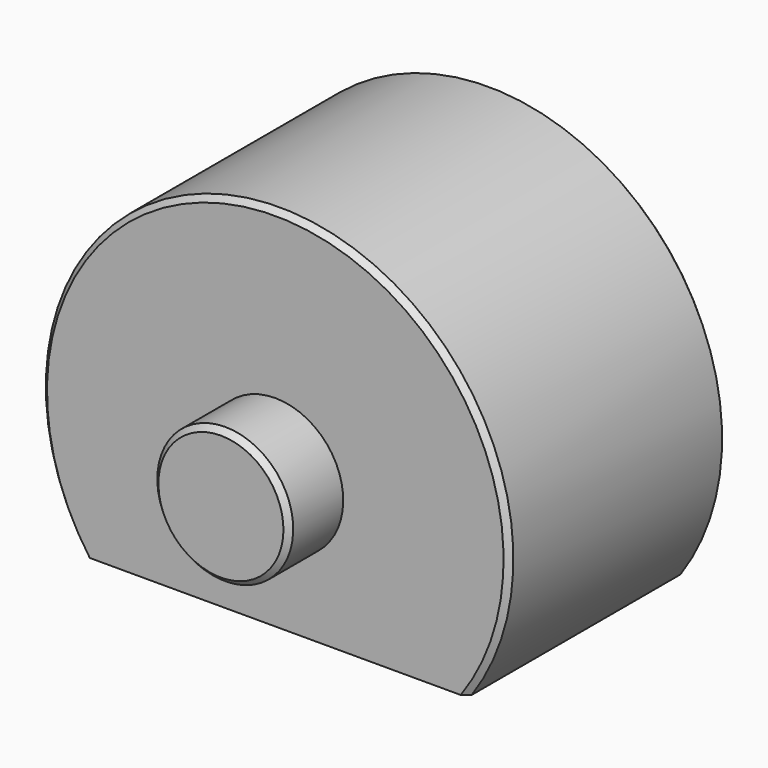
from build123d import *

# Parameters (mm, degrees)
F0_W     = 12.7
F0_H     = 7.747
F0_H_2   = 3.175
F0_W_2   = 3.175
F3_DEPTH = 15.876
F4_SIZE  = 0.254
F5_R     = 3.175
F6_DEPTH = 12.7


with BuildPart() as f1:
    # F0 (on Right) → F1 (revolve)
    with BuildSketch(Plane.YZ):
        with Locations((0, 7.0485)):
            Rectangle(F0_W, F0_H)
        with Locations((0, 1.5875)):
            Rectangle(F0_W, F0_H_2)
        with Locations((-7.9375, 1.5875)):
            Rectangle(F0_W_2, F0_H_2)
        with Locations((7.9375, 1.5875)):
            Rectangle(F0_W_2, F0_H_2)
    revolve(axis=Axis((0, 0, 0), (0, 1, 0)))

    # F2 (on face) → F3 (cut, through all)
    with BuildSketch(Plane.XZ.offset(6.35)):
        with BuildLine():
            Line((-8.9757648699, -6.223), (-10.8736076074, -6.223))
            Line((-10.8736076074, -6.223), (-10.8736076074, -16.0401048288))
            Line((-10.8736076074, -16.0401048288), (15.6559471654, -16.0401048288))
            Line((15.6559471654, -16.0401048288), (15.6559471654, -6.223))
            Line((15.6559471654, -6.223), (8.9757648699, -6.223))
            ThreePointArc((8.9757648699, -6.223), (0, -10.922), (-8.9757648699, -6.223))
        make_face()
        with BuildLine():
            Line((8.9757648699, -6.223), (-8.9757648699, -6.223))
            ThreePointArc((-8.9757648699, -6.223), (0, -10.922), (8.9757648699, -6.223))
        make_face()
    extrude(amount=-F3_DEPTH, mode=Mode.SUBTRACT)

    # F4
    f4_edges = [f1.edges().sort_by_distance(p)[0] for p in [
        (0, -9.525, -3.175),
        (0, -6.35, 10.922),
        (0, 6.35, 10.922),
        (0, 9.525, -3.175),
    ]]
    chamfer(f4_edges, length=F4_SIZE)

    # F5 (on face) → F6 (cut)
    with BuildSketch(Plane(origin=(0, 0, -6.223), x_dir=(1, 0, 0), z_dir=(0, 0, -1))):
        Circle(F5_R)
    extrude(amount=-F6_DEPTH, mode=Mode.SUBTRACT)


solid = f1.part
